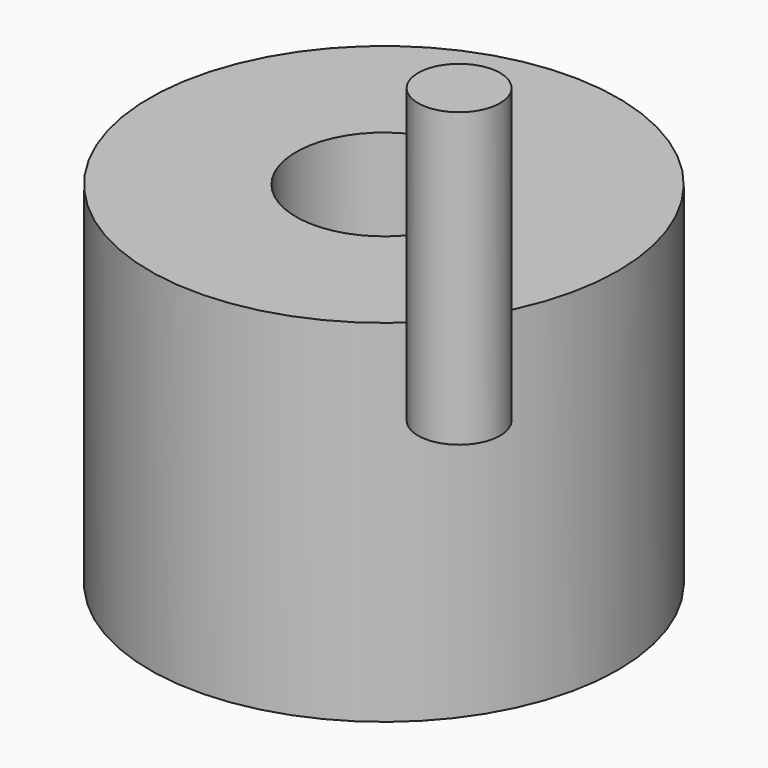
from build123d import *

# Parameters (mm, degrees)
F0_R     = 20
F1_DEPTH = 30
F2_R     = 3.5
F3_DEPTH = 25
F4_R     = 7.5
F5_DEPTH = 30.001


with BuildPart() as f1:
    # F0 (on Top) → F1 (new body)
    with BuildSketch(Plane.XY):
        Circle(F0_R)
    extrude(amount=F1_DEPTH)

    # F4 (on face) → F5 (cut, through all)
    with BuildSketch(Plane.XY.offset(30)):
        Circle(F4_R)
    extrude(amount=-F5_DEPTH, mode=Mode.SUBTRACT)


with BuildPart() as f3:
    # F2 (on face) → F3 (new body)
    with BuildSketch(Plane.XY.offset(30)):
        with Locations((25.218701, -23.493621)):
            Circle(F2_R)
    extrude(amount=F3_DEPTH)


solid = Compound([f1.part, f3.part])
